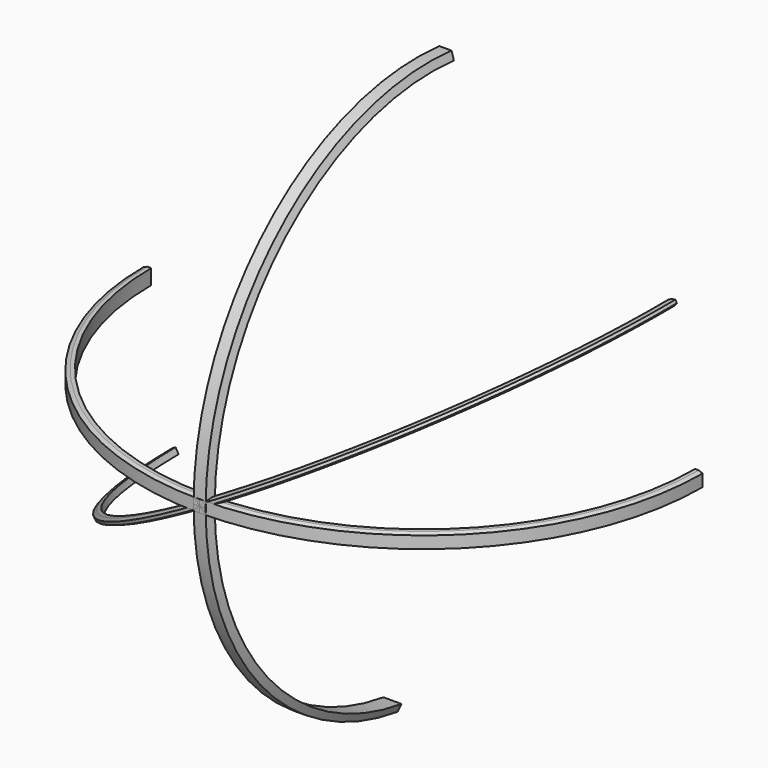
from build123d import *


with BuildPart() as f4:
    # F4: sweep along a path in F3
    with BuildLine(Plane.YZ) as f4_path:
        ThreePointArc((-1951.0188522569, 1676.4), (-1198.7097344299, 3371.5661505408), (563.0566315046, 3950.9939360042))
    # F2 (on line) → F4 (sweep)
    with BuildSketch(Plane.XY.offset(1676.4)):
        Polygon((76.2, -1951.0188522569), (-76.2, -1951.0188522569), (-50.8, -2014.5188522569), (0, -2014.5188522569), (50.8, -2014.5188522569), align=None)
    sweep(path=f4_path.line)


with BuildPart() as f5:
    # F5: sweep along a path in F3
    with BuildLine(Plane.YZ) as f5_path:
        ThreePointArc((-1951.0188522569, 1676.4), (-1391.7442605118, 178.329452767), (12.4241612926, -586.729026479))
    # F2 (on line) → F5 (sweep)
    with BuildSketch(Plane.XY.offset(1676.4)):
        Polygon((76.2, -1951.0188522569), (-76.2, -1951.0188522569), (-50.8, -2014.5188522569), (0, -2014.5188522569), (50.8, -2014.5188522569), align=None)
    sweep(path=f5_path.line)


with BuildPart() as f9:
    # F9: sweep along a path in F6
    with BuildLine(Plane.XY.offset(1676.4)) as f9_path:
        ThreePointArc((0, -1951.0188522569), (1616.4461017924, -1281.4649540494), (2286, 334.9811477431))
    # F8 (on line) → F9 (sweep)
    with BuildSketch(Plane.YZ):
        Polygon((-1951.0188522569, 1612.9), (-1951.0188522569, 1739.9), (-1982.7688522569, 1739.9), (-2014.5188522569, 1727.2), (-2014.5188522569, 1625.6), (-1982.7688522569, 1612.9), align=None)
    sweep(path=f9_path.line)


with BuildPart() as f10:
    # F10: sweep along a path in F6
    with BuildLine(Plane.XY.offset(1676.4)) as f10_path:
        ThreePointArc((0, -1951.0188522569), (-1616.4461017924, -1281.4649540494), (-2286, 334.9811477431))
    # F8 (on line) → F10 (sweep)
    with BuildSketch(Plane.YZ):
        Polygon((-1951.0188522569, 1612.9), (-1951.0188522569, 1739.9), (-1982.7688522569, 1739.9), (-2014.5188522569, 1727.2), (-2014.5188522569, 1625.6), (-1982.7688522569, 1612.9), align=None)
    sweep(path=f10_path.line)


with BuildPart() as f16:
    # F16: sweep along a path in F13
    with BuildLine(Plane(origin=(-725.9024934521, 0, 1257.3), x_dir=(0.8660254038, 0, 0.5), z_dir=(0.5, 0, -0.8660254038))) as f16_path:
        ThreePointArc((838.2, 1951.0188522569), (2494.621575006, 1240.4754736383), (3121.332404324, -449.4469693927))
    # F15 (on line) → F16 (sweep)
    with BuildSketch(Plane(origin=(725.9024934521, 0, 419.1), x_dir=(0, 1, 0), z_dir=(0.8660254038, 0, 0.5))):
        Polygon((-1951.0188522569, 1426.4049869042), (-1951.0188522569, 1477.2049869042), (-1982.7688522569, 1477.2049869042), (-2014.5188522569, 1464.5049869042), (-2014.5188522569, 1439.1049869042), (-1982.7688522569, 1426.4049869042), align=None)
    sweep(path=f16_path.line)


with BuildPart() as f17:
    # F17: sweep along a path in F13
    with BuildLine(Plane(origin=(-725.9024934521, 0, 1257.3), x_dir=(0.8660254038, 0, 0.5), z_dir=(0.5, 0, -0.8660254038))) as f17_path:
        ThreePointArc((838.2, 1951.0188522569), (-737.2566213814, 1321.440427263), (-1444.932404324, -220.5153260935))
    # F15 (on line) → F17 (sweep)
    with BuildSketch(Plane(origin=(725.9024934521, 0, 419.1), x_dir=(0, 1, 0), z_dir=(0.8660254038, 0, 0.5))):
        Polygon((-1951.0188522569, 1426.4049869042), (-1951.0188522569, 1477.2049869042), (-1982.7688522569, 1477.2049869042), (-2014.5188522569, 1464.5049869042), (-2014.5188522569, 1439.1049869042), (-1982.7688522569, 1426.4049869042), align=None)
    sweep(path=f17_path.line)


solid = Compound([f4.part, f5.part, f9.part, f10.part, f16.part, f17.part])
